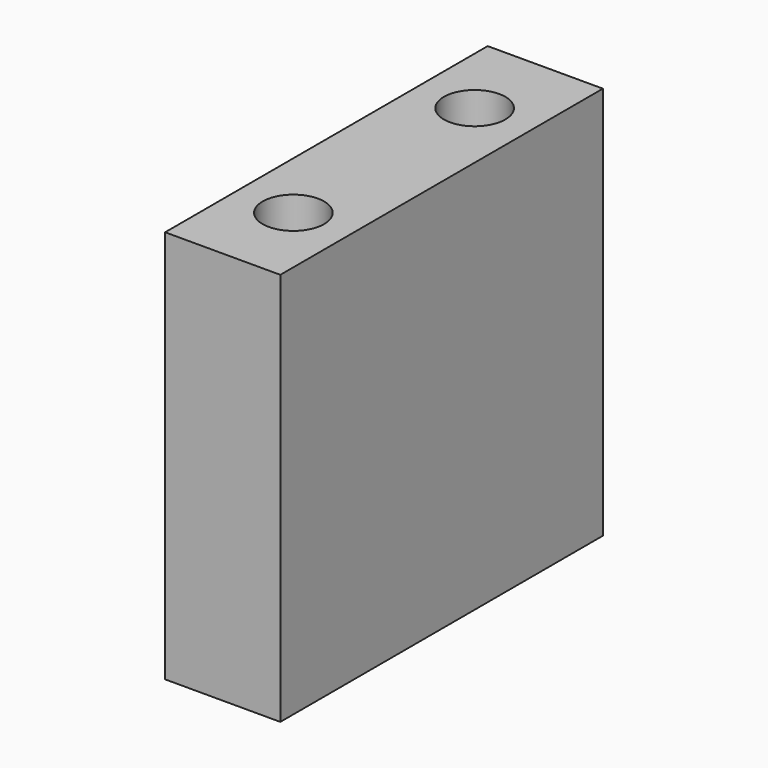
from build123d import *

# Parameters (mm, degrees)
SKETCH_R     = 1.6
PAD_DEPTH    = 20.5
SKETCH001_R  = 4.75
POCKET_DEPTH = 1


with BuildPart() as part:
    # Sketch → Pad (new body)
    with BuildSketch(Plane.XY):
        Polygon((0, 0), (0, 10.5), (6, 10.5), (6, 0), (6, -10.5), (0, -10.5), align=None)
        with Locations((3, 5.9)):
            Circle(SKETCH_R, mode=Mode.SUBTRACT)
        with Locations((3, -5.9)):
            Circle(SKETCH_R, mode=Mode.SUBTRACT)
    extrude(amount=PAD_DEPTH)

    # Sketch001 → Pocket (cut)
    with BuildSketch(Plane.YZ):
        with Locations((0, 10.25)):
            Circle(SKETCH001_R)
    extrude(amount=POCKET_DEPTH, mode=Mode.SUBTRACT)


solid = part.part
